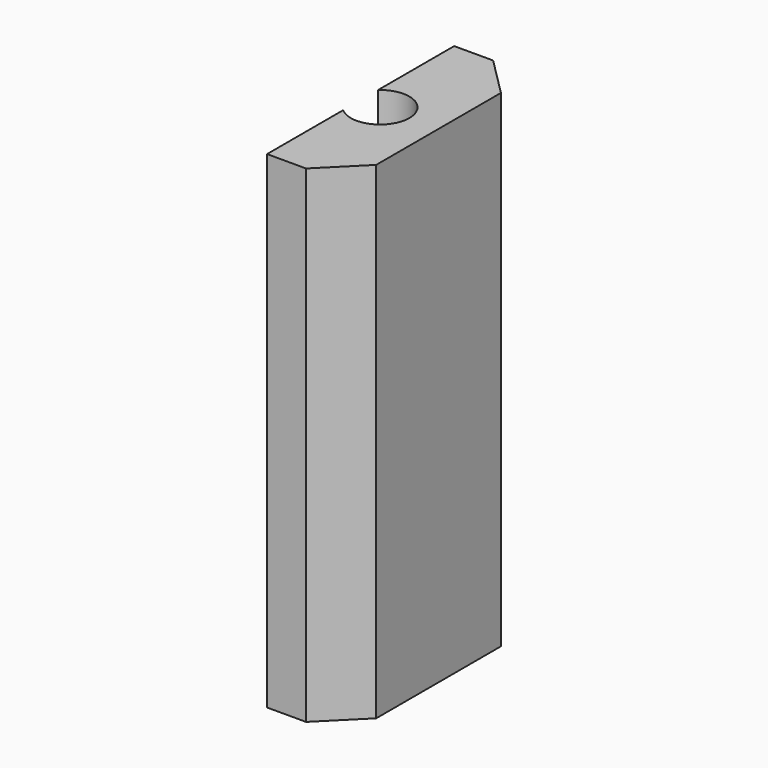
from build123d import *

# Parameters (mm, degrees)
CYLINDER1144_R     = 1.5
CYLINDER1144_DEPTH = 50
BOX457_W           = 4
BOX457_H           = 12
BOX457_DEPTH       = 25
CHAMFER_SIZE       = 2


with BuildPart() as obj1:
    # Cylinder1144 → Cylinder1144 (new body)
    with BuildSketch(Plane(origin=(52, 0, 0), x_dir=(1, 0, 0), z_dir=(0, 0, 1))):
        Circle(CYLINDER1144_R)
    extrude(amount=CYLINDER1144_DEPTH)


with BuildPart() as cut428:
    # Box457 → Box457 (new body)
    with BuildSketch(Plane(origin=(51, -6, 20), x_dir=(1, 0, 0), z_dir=(0, 0, 1))):
        with Locations((2, 6)):
            Rectangle(BOX457_W, BOX457_H)
    extrude(amount=BOX457_DEPTH)

    # Chamfer
    chamfer_edges = [cut428.edges().sort_by_distance(p)[0] for p in [
        (55, -6, 32.5),
        (55, 6, 32.5),
    ]]
    chamfer(chamfer_edges, length=CHAMFER_SIZE)

    # Cut428: cut obj1
    add(obj1.part, mode=Mode.SUBTRACT)


solid = cut428.part
